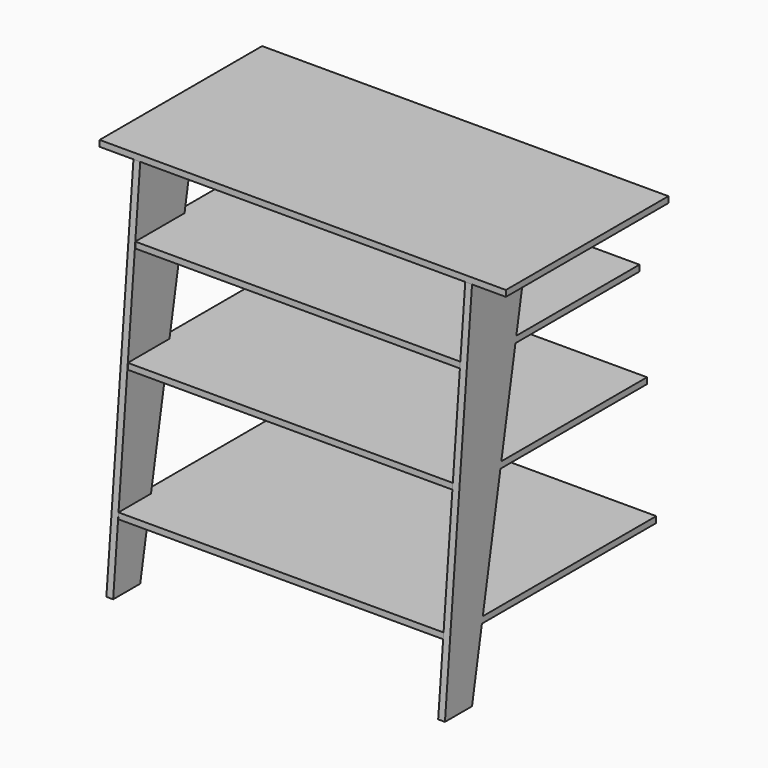
from build123d import *

# Parameters (mm, degrees)
F0_W     = 600
F0_H     = 18
F1_DEPTH = 600
F4_DEPTH = 20
F6_DEPTH = 10
F7_W     = 691.8869644485
F7_H     = 18
F7_W_2   = 636.4630811304
F7_W_3   = 760.2552415679
F8_DEPTH = 500


with BuildPart() as f1:
    # F0 (on Front) → F1 (new body)
    with BuildSketch(Plane.XZ):
        with Locations((-300, 1106)):
            Rectangle(F0_W, F0_H)
    extrude(amount=F1_DEPTH)

    # F3 (on offset) → F4 (join)
    with BuildSketch(Plane.YZ.offset(-500)):
        Polygon((-600, 0), (-400, 1097), (-600, 1097), (-700, 0), align=None)
    extrude(amount=F4_DEPTH)

    # F5 (on Right) → F6 (join)
    with BuildSketch(Plane.YZ):
        Polygon((100, 0), (0, 1097), (-200, 1097), (0, 0), align=None)
    extrude(amount=-F6_DEPTH)

    # F7 (on offset) → F8 (join)
    with BuildSketch(Plane.YZ.offset(-500)):
        with Locations((-300, 584)):
            Rectangle(F7_W, F7_H)
        with Locations((-300, 888)):
            Rectangle(F7_W_2, F7_H)
        with Locations((-300, 209)):
            Rectangle(F7_W_3, F7_H)
    extrude(amount=F8_DEPTH)

    # F9: F1 across plane


with BuildPart() as f1_1:
    add(f1.part)
    add(f1.part.mirror(Plane.YZ))


solid = f1_1.part
